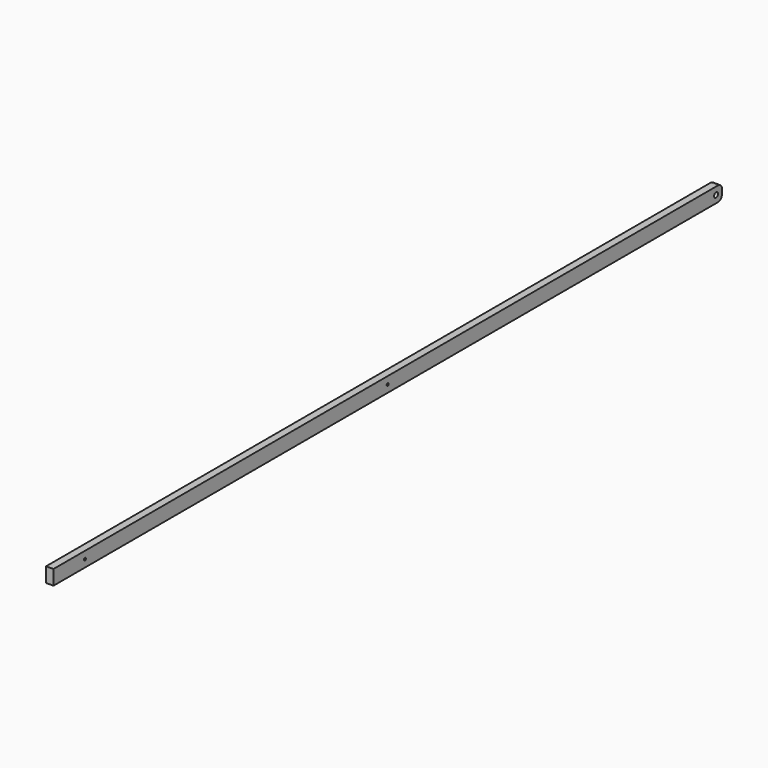
from build123d import *

# Parameters (mm, degrees)
F0_W     = 19.05
F0_H     = 38.1
F1_DEPTH = 2159
F2_R     = 6.35
F2_R_2   = 3.175
F3_DEPTH = 19.051
F4_R     = 12.7


with BuildPart() as f1:
    # F0 (on Front) → F1 (new body)
    with BuildSketch(Plane.XZ):
        with Locations((9.525, 19.05)):
            Rectangle(F0_W, F0_H)
    extrude(amount=-F1_DEPTH)

    # F2 (on face) → F3 (cut, through all)
    with BuildSketch(Plane.YZ.offset(19.05)):
        with Locations((2139.95, 19.05)):
            Circle(F2_R)
        with Locations((1079.5, 19.05)):
            Circle(F2_R_2)
        with Locations((101.6, 19.05)):
            Circle(F2_R_2)
    extrude(amount=-F3_DEPTH, mode=Mode.SUBTRACT)

    # F4
    f4_edges = [f1.edges().sort_by_distance(p)[0] for p in [
        (9.525, 2159, 38.1),
        (9.525, 2159, 0),
    ]]
    fillet(f4_edges, radius=F4_R)


solid = f1.part
